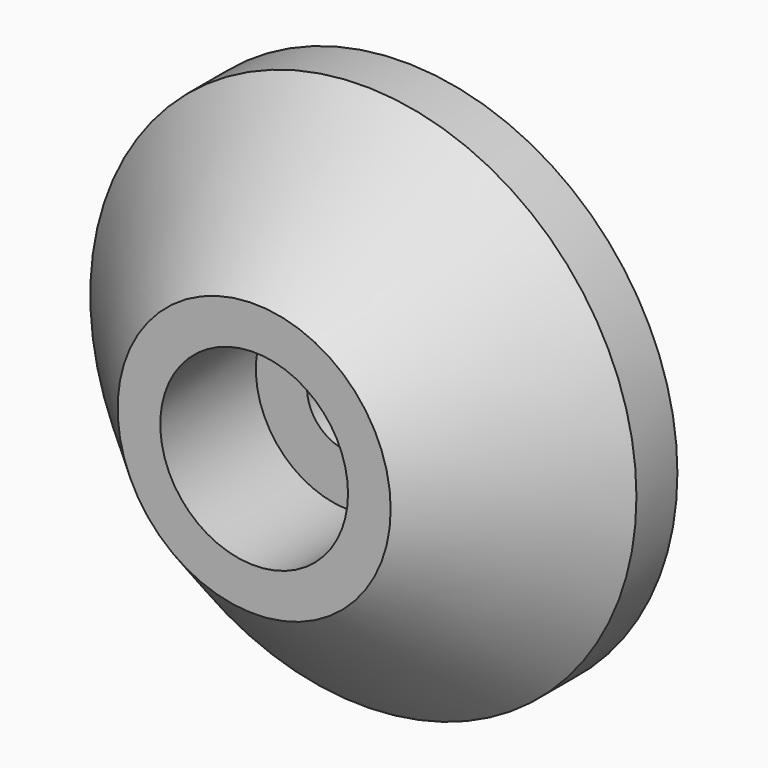
from build123d import *

# Parameters (mm, degrees)
F0_R     = 160
F0_R_2   = 50
F0_R_3   = 42.35
F0_R_4   = 25
F1_DEPTH = 110
F2_DEPTH = 35
F3_SIZE  = 80
F4_R     = 55
F5_DEPTH = 70
F6_R     = 7
F7_DEPTH = 30


with BuildPart() as f1:
    # F0 (on Front) → F1 (new body)
    with BuildSketch(Plane.XZ):
        Circle(F0_R)
        Circle(F0_R_2, mode=Mode.SUBTRACT)
        Circle(F0_R_2)
        Circle(F0_R_3, mode=Mode.SUBTRACT)
        Circle(F0_R_3)
        Circle(F0_R_4, mode=Mode.SUBTRACT)
    extrude(amount=F1_DEPTH)

    # F0 (on Front) → F2 (join)
    with BuildSketch(Plane.XZ):
        Circle(F0_R_3)
        Circle(F0_R_4, mode=Mode.SUBTRACT)
    extrude(amount=-F2_DEPTH)

    # F3
    f3_edges = [f1.edges().sort_by_distance(p)[0] for p in [
        (-160, -110, 0),
    ]]
    chamfer(f3_edges, length=F3_SIZE)

    # F4 (on face) → F5 (cut)
    with BuildSketch(Plane.XZ.offset(110)):
        Circle(F4_R)
    extrude(amount=-F5_DEPTH, mode=Mode.SUBTRACT)

    # F6 (on face) → F7 (cut)
    with BuildSketch(Plane(origin=(0, 0, 0), x_dir=(-1, 0, 0), z_dir=(0, 1, 0))):
        with Locations((-85, 0)):
            Circle(F6_R)
        with Locations((85, 0)):
            Circle(F6_R)
    extrude(amount=-F7_DEPTH, mode=Mode.SUBTRACT)


solid = f1.part
